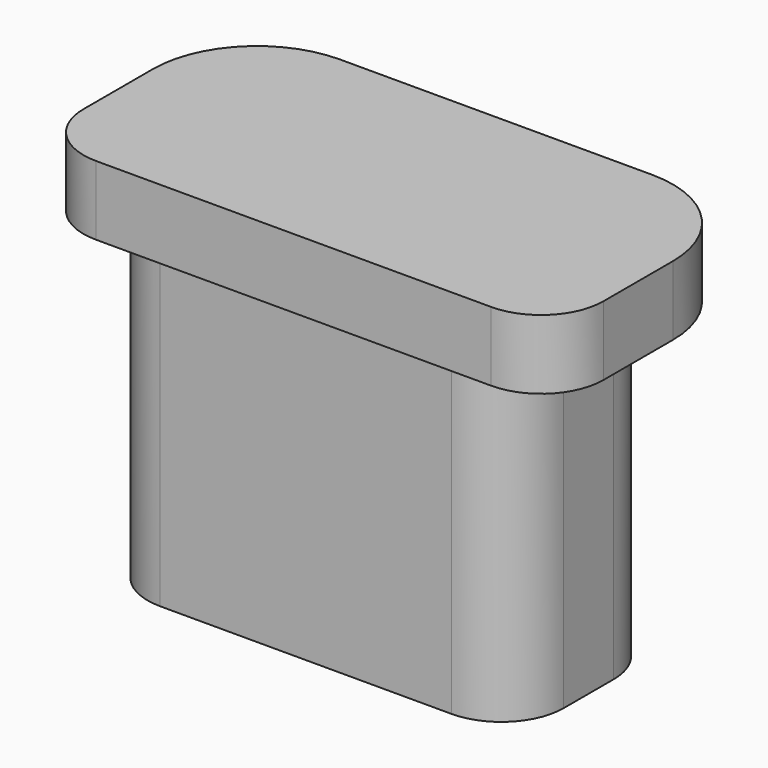
from build123d import *

# Parameters (mm, degrees)
EXTRUDE015_DEPTH          = 1
EXTRUDE014_DEPTH          = 5
FUSION018_PLACEMENT_ANGLE = 90


with BuildPart() as extrude015:
    # Sketch015 → Extrude015 (new body)
    with BuildSketch(Plane.XZ):
        with BuildLine():
            ThreePointArc((11.7, 16.35), (11.063604, 16.086396), (10.8, 15.45))
            Line((10.8, 14.2), (10.8, 15.45))
            ThreePointArc((10.8, 14.2), (11.23934, 13.13934), (12.3, 12.7))
            Line((16.8, 12.7), (12.3, 12.7))
            ThreePointArc((16.8, 12.7), (17.86066, 13.13934), (18.3, 14.2))
            Line((18.3, 15.45), (18.3, 14.2))
            ThreePointArc((18.3, 15.45), (18.036396, 16.086396), (17.4, 16.35))
            Line((11.7, 16.35), (17.4, 16.35))
        make_face()
    extrude(amount=EXTRUDE015_DEPTH)


with BuildPart() as extrude015_1:
    # Extrude015 placement: moved
    add(extrude015.part.moved(Location((0, 2.5, 0))))


with BuildPart() as button1:
    # Sketch014 → Extrude014 (new body)
    with BuildSketch(Plane.XZ):
        with BuildLine():
            ThreePointArc((12.75, 16.23), (12.113604, 15.966396), (11.85, 15.33))
            Line((11.85, 14.43), (11.85, 15.33))
            ThreePointArc((11.85, 14.43), (12.113604, 13.793604), (12.75, 13.53))
            Line((16.95, 13.53), (12.75, 13.53))
            ThreePointArc((16.95, 13.53), (17.586396, 13.793604), (17.85, 14.43))
            Line((17.85, 15.33), (17.85, 14.43))
            ThreePointArc((17.85, 15.33), (17.586396, 15.966396), (16.95, 16.23))
            Line((12.75, 16.23), (16.95, 16.23))
        make_face()
    extrude(amount=EXTRUDE014_DEPTH)


with BuildPart() as button1_1:
    # Extrude014 placement: moved
    add(button1.part.moved(Location((-0.3, 2, -0.1))))

    # Fusion018: union Extrude015
    add(extrude015_1.part)


with BuildPart() as button1_2:
    # Fusion018 placement: moved
    add(button1_1.part.moved(Location((104.5, 9.5, -78))).rotate(Axis((104.5, 9.5, -78), (1, 0, 0)), FUSION018_PLACEMENT_ANGLE))


solid = button1_2.part
